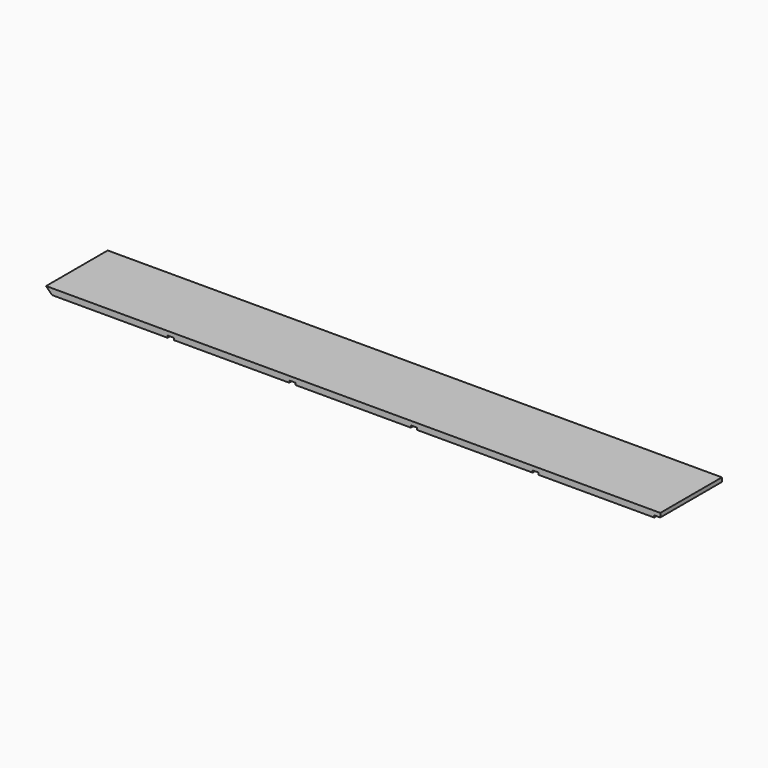
from build123d import *

# Parameters (mm, degrees)
F0_W     = 1924.05
F0_H     = 19.05
F1_DEPTH = 241.3
F3_DEPTH = 241.301
F4_W     = 19.05
F4_H     = 12.7
F4_H_2   = 6.35
F5_DEPTH = 241.301


with BuildPart() as f1:
    # F0 (on Front) → F1 (new body)
    with BuildSketch(Plane.XZ):
        Rectangle(F0_W, F0_H)
    extrude(amount=F1_DEPTH)

    # F2 (on face) → F3 (cut, through all)
    with BuildSketch(Plane.XZ.offset(241.3)):
        Polygon((-942.975, -9.525), (-962.025, 9.525), (-962.025, -9.525), align=None)
    extrude(amount=-F3_DEPTH, mode=Mode.SUBTRACT)

    # F4 (on face) → F5 (cut, through all)
    with BuildSketch(Plane.XZ.offset(241.3)):
        with Locations((-571.5, -9.525)):
            Rectangle(F4_W, F4_H)
        with Locations((-190.5, -9.525)):
            Rectangle(F4_W, F4_H)
        with Locations((571.5, -9.525)):
            Rectangle(F4_W, F4_H)
        with Locations((190.5, -9.525)):
            Rectangle(F4_W, F4_H)
        with Locations((952.5, -6.35)):
            Rectangle(F4_W, F4_H_2)
    extrude(amount=-F5_DEPTH, mode=Mode.SUBTRACT)


solid = f1.part
